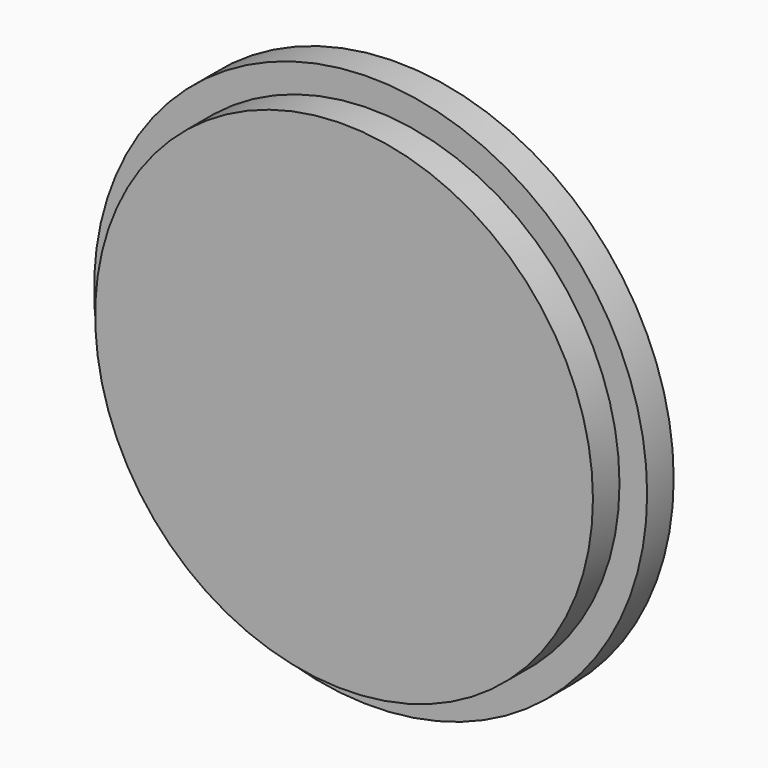
from build123d import *

# Parameters (mm, degrees)
F0_R     = 15.875
F1_DEPTH = 3.81
F2_R     = 15.875
F2_R_2   = 14.2875
F3_DEPTH = 1.905


with BuildPart() as f1:
    # F0 (on Front) → F1 (new body)
    with BuildSketch(Plane.XZ):
        Circle(F0_R)
    extrude(amount=F1_DEPTH)

    # F2 (on face) → F3 (cut)
    with BuildSketch(Plane.XZ.offset(3.81)):
        Circle(F2_R)
        Circle(F2_R_2, mode=Mode.SUBTRACT)
    extrude(amount=-F3_DEPTH, mode=Mode.SUBTRACT)


solid = f1.part
